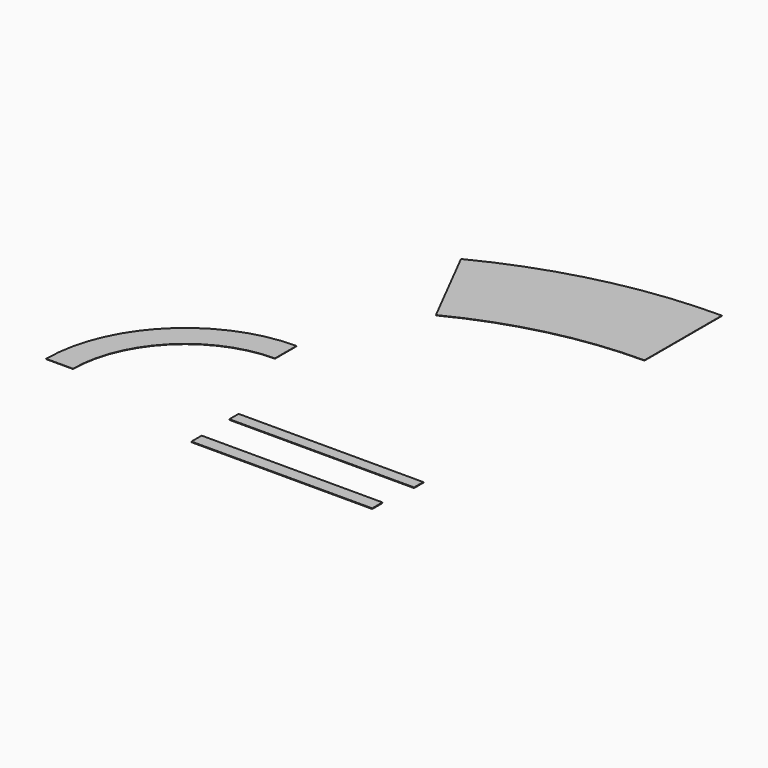
from build123d import *

# Parameters (mm, degrees)
F2_DEPTH = 0.5
F3_W     = 288
F3_H     = 18
F3_W_2   = 282
F3_H_2   = 20
F4_DEPTH = 1
F5_DEPTH = 0.5


with BuildPart() as f2:
    # F0 (on Top) → F2 (new body)
    with BuildSketch(Plane.XY):
        with BuildLine():
            ThreePointArc((-175, 0), (-123.743687, 123.743687), (0, 175))
            Line((0, 175), (0, 217))
            ThreePointArc((0, 217), (-153.442172, 153.442172), (-217, 0))
            Line((-217, 0), (-175, 0))
        make_face()
    extrude(amount=F2_DEPTH)


with BuildPart() as f4:
    # F3 (on Top) → F4 (new body)
    with BuildSketch(Plane.XY):
        with Locations((201.417454, 23.301498)):
            Rectangle(F3_W, F3_H)
        with Locations((199.098303, -50.59212)):
            Rectangle(F3_W_2, F3_H_2)
    extrude(amount=F4_DEPTH)


with BuildPart() as f5:
    # F1 (on Top) → F5 (new body)
    with BuildSketch(Plane.XY):
        with BuildLine():
            ThreePointArc((81.656802, 386.611653), (214.204428, 435.511054), (354.505092, 452.116732))
            Line((354.505092, 452.116732), (354.505092, 603.116732))
            ThreePointArc((354.505092, 603.116732), (178.954178, 582.338912), (13.104236, 521.153638))
            Line((13.104236, 521.153638), (81.656802, 386.611653))
        make_face()
    extrude(amount=F5_DEPTH)


solid = Compound([f2.part, f4.part, f5.part])
